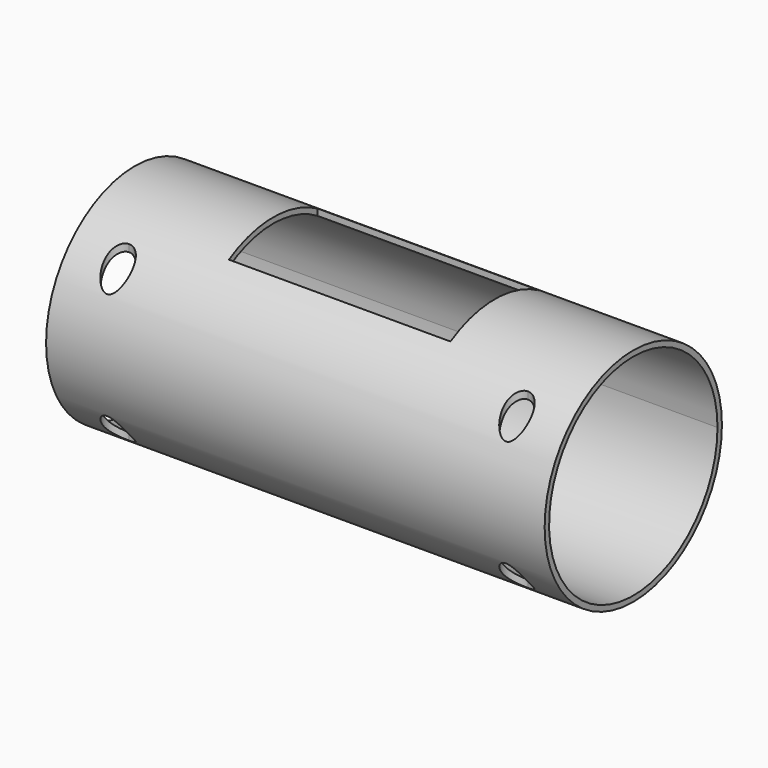
from build123d import *

# Parameters (mm, degrees)
F0_R     = 25.4
F1_DEPTH = 57.15
F3_DEPTH = 25.4
F5_DEPTH = 114.3
F7_DEPTH = 76.2


with BuildPart() as f1:
    # F0 (on Right) → F1 (new body, symmetric)
    with BuildSketch(Plane.YZ):
        with Locations((0, -25.4)):
            Circle(F0_R)
    extrude(amount=F1_DEPTH, both=True)

    # F2 (on Top) → F3 (cut)
    with BuildSketch(Plane.XY):
        Polygon((-25.4, 12.7), (-25.4, 0), (-25.4, -12.7), (25.4, -12.7), (25.4, 0), (25.4, 12.7), align=None)
    extrude(amount=-F3_DEPTH, mode=Mode.SUBTRACT)

    # F4 (on face) → F5 (cut)
    with BuildSketch(Plane.YZ.offset(57.15)):
        with BuildLine():
            ThreePointArc((24.13, -25.4), (17.06248663, -8.33751337), (0, -1.27))
            ThreePointArc((0, -1.27), (-17.06248663, -42.46248663), (24.13, -25.4))
        make_face()
    extrude(amount=-F5_DEPTH, mode=Mode.SUBTRACT)

    # F6 (on Top) → F7 (cut)
    with BuildSketch(Plane.XY):
        with BuildLine():
            ThreePointArc((-42.545, -19.05), (-43.4749359697, -16.8049359697), (-45.72, -15.875))
            ThreePointArc((-45.72, -15.875), (-47.9650640303, -21.2950640303), (-42.545, -19.05))
        make_face()
        with BuildLine():
            ThreePointArc((48.895, -19.05), (47.9650640303, -16.8049359697), (45.72, -15.875))
            ThreePointArc((45.72, -15.875), (43.4749359697, -21.2950640303), (48.895, -19.05))
        make_face()
    extrude(amount=-F7_DEPTH, mode=Mode.SUBTRACT)


solid = f1.part
